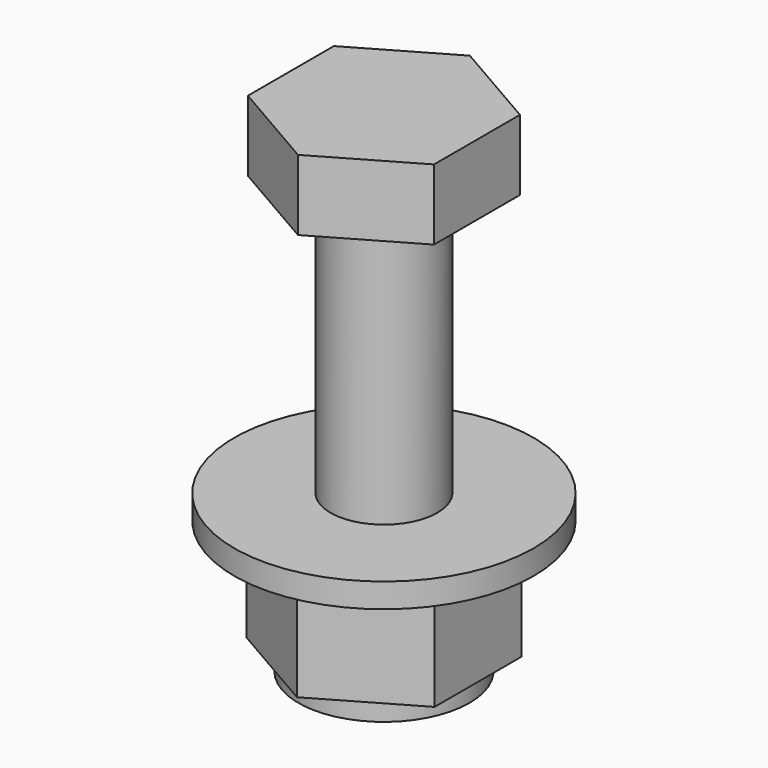
from build123d import *

# Parameters (mm, degrees)
F0_R     = 3.175
F1_DEPTH = 25.4
F3_DEPTH = 4.191
F5_DEPTH = 7.874
F6_R     = 8.89
F7_DEPTH = 1.4478
F8_R     = 5.08
F9_DEPTH = 1.27


with BuildPart() as f1:
    # F0 (on Top) → F1 (new body)
    with BuildSketch(Plane.XY):
        Circle(F0_R)
    extrude(amount=-F1_DEPTH)

    # F2 (on face) → F3 (join)
    with BuildSketch(Plane.XY):
        Polygon((5.5245, 3.189572), (0, 6.379143), (-5.5245, 3.189572), (-5.5245, -3.189572), (0, -6.379143), (5.5245, -3.189572), align=None)
    extrude(amount=F3_DEPTH)

    # F4 (on face) → F5 (join)
    with BuildSketch(Plane(origin=(0, 0, -25.4), x_dir=(1, 0, 0), z_dir=(0, 0, -1))):
        Polygon((5.588, 3.226233), (0, 6.452467), (-5.588, 3.226233), (-5.588, -3.226233), (0, -6.452467), (5.588, -3.226233), align=None)
    extrude(amount=-F5_DEPTH)

    # F6 (on face) → F7 (join)
    with BuildSketch(Plane.XY.offset(-17.526)):
        Circle(F6_R)
    extrude(amount=F7_DEPTH)

    # F8 (on face) → F9 (cut)
    with BuildSketch(Plane(origin=(0, 0, -25.4), x_dir=(1, 0, 0), z_dir=(0, 0, -1))):
        Polygon((5.588, -3.226233), (5.588, 3.226233), (0, 6.452467), (-5.588, 3.226233), (-5.588, -3.226233), (0, -6.452467), align=None)
        Circle(F8_R, mode=Mode.SUBTRACT)
    extrude(amount=-F9_DEPTH, mode=Mode.SUBTRACT)


solid = f1.part
